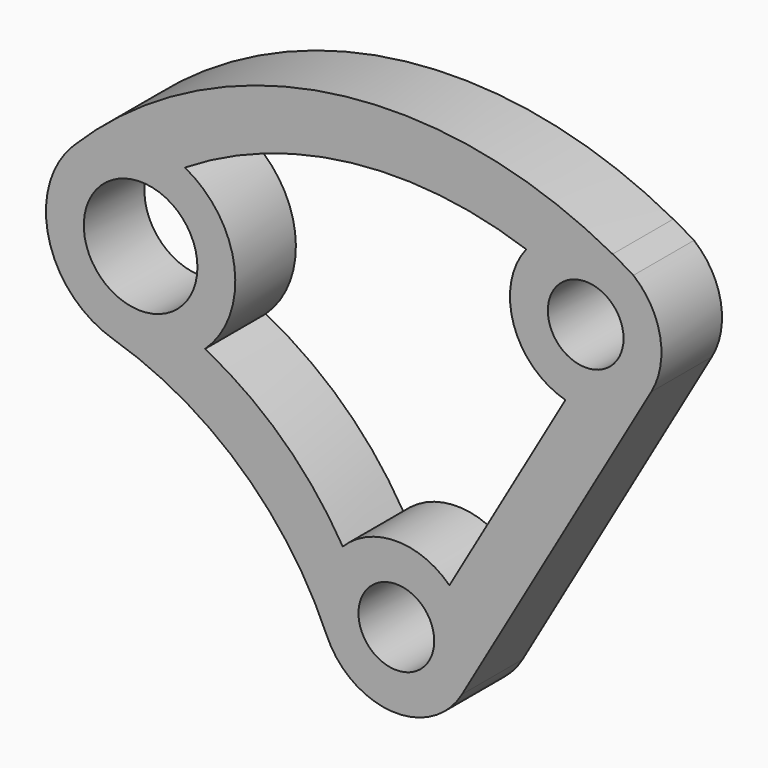
from build123d import *

# Parameters (mm, degrees)
F0_R     = 254
F0_R_2   = 381
F1_DEPTH = 508


with BuildPart() as f1:
    # F0 (on Front) → F1 (new body)
    with BuildSketch(Plane.XZ):
        with BuildLine():
            ThreePointArc((1709.940905, 1951.869754), (1769.522633, 2298.288037), (1589.943442, 2600.458392))
            ThreePointArc((1589.943442, 2600.458392), (1520.802058, 2641.489182), (1450.602522, 2680.682063))
            ThreePointArc((1450.602522, 2680.682063), (-447.461533, 3014.976314), (-2166.623904, 2143.838813))
            ThreePointArc((-2166.623904, 2143.838813), (-2330.912538, 1541.71567), (-1900.423021, 1089.806598))
            ThreePointArc((-1900.423021, 1089.806598), (-1041.840503, 605.955035), (-466.739595, -194.379407))
            ThreePointArc((-466.739595, -194.379407), (-29.898352, -500.954175), (439.940905, -247.834772))
            Line((439.940905, -247.834772), (1709.940905, 1951.869754))
        make_face()
        with Locations((0, 6.165228)):
            Circle(F0_R, mode=Mode.SUBTRACT)
        with Locations((-1715.243924, 1697.205727)):
            Circle(F0_R_2, mode=Mode.SUBTRACT)
        with BuildLine():
            ThreePointArc((-1418.395625, 2258.548837), (-303.32647, 2649.694709), (871.290541, 2520.662967))
            ThreePointArc((871.290541, 2520.662967), (787.117834, 2048.107863), (1134.050784, 1716.398804))
            Line((1134.050784, 1716.398804), (355.919669, 368.636178))
            ThreePointArc((355.919669, 368.636178), (-2.399681, 514.15956), (-359.328213, 365.257466))
            ThreePointArc((-359.328213, 365.257466), (-760.026522, 863.829525), (-1283.170473, 1231.869792))
            ThreePointArc((-1283.170473, 1231.869792), (-1085.681223, 1780.1262), (-1418.395625, 2258.548837))
        make_face(mode=Mode.SUBTRACT)
        with Locations((1270, 2205.869754)):
            Circle(F0_R, mode=Mode.SUBTRACT)
    extrude(amount=F1_DEPTH)


solid = f1.part
